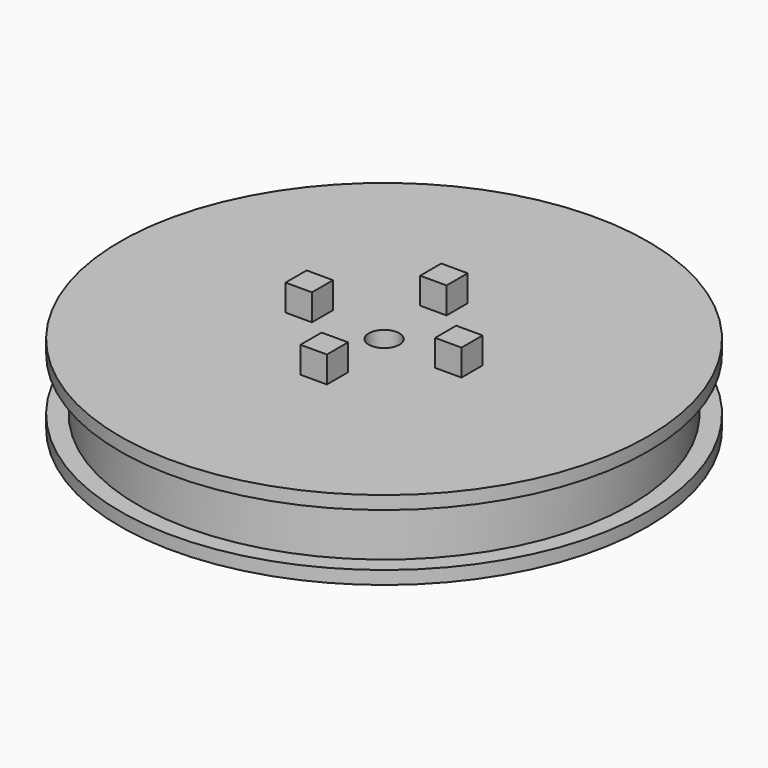
from build123d import *

# Parameters (mm, degrees)
F3_DEPTH = 3
F4_DEPTH = 3


with BuildPart() as f1:
    # F0 (on Front) → F1 (revolve)
    with BuildSketch(Plane.XZ):
        Polygon((1.75, 9), (1.75, 0), (27.950706, 0), (30, 0), (30, 1.5), (28, 1.5), (28, 7.5), (30, 7.5), (30, 9), align=None)
    revolve(axis=Axis((0, 0, 5), (0, 0, 1)))

    # F2 (on face) → F3 (join)
    with BuildSketch(Plane.XY.offset(9)):
        Polygon((-1.5, 7), (1.5, 7), (1.5, 10), (0, 10), (-1.5, 10), align=None)
        Polygon((1.5, -7), (-1.5, -7), (-1.5, -10), (0, -10), (1.5, -10), align=None)
        Polygon((-7, -1.5), (-7, 1.5), (-10, 1.5), (-10, 0), (-10, -1.5), align=None)
        Polygon((10, -1.5), (10, 0), (10, 1.5), (7, 1.5), (7, -1.5), align=None)
    extrude(amount=F3_DEPTH)

    # F2 (on face) → F4 (join)
    with BuildSketch(Plane.XY.offset(9)):
        Polygon((-1.5, 7), (1.5, 7), (1.5, 10), (0, 10), (-1.5, 10), align=None)
        Polygon((-7, -1.5), (-7, 1.5), (-10, 1.5), (-10, 0), (-10, -1.5), align=None)
        Polygon((1.5, -7), (-1.5, -7), (-1.5, -10), (0, -10), (1.5, -10), align=None)
        Polygon((10, -1.5), (10, 0), (10, 1.5), (7, 1.5), (7, -1.5), align=None)
    extrude(amount=F4_DEPTH)


solid = f1.part
